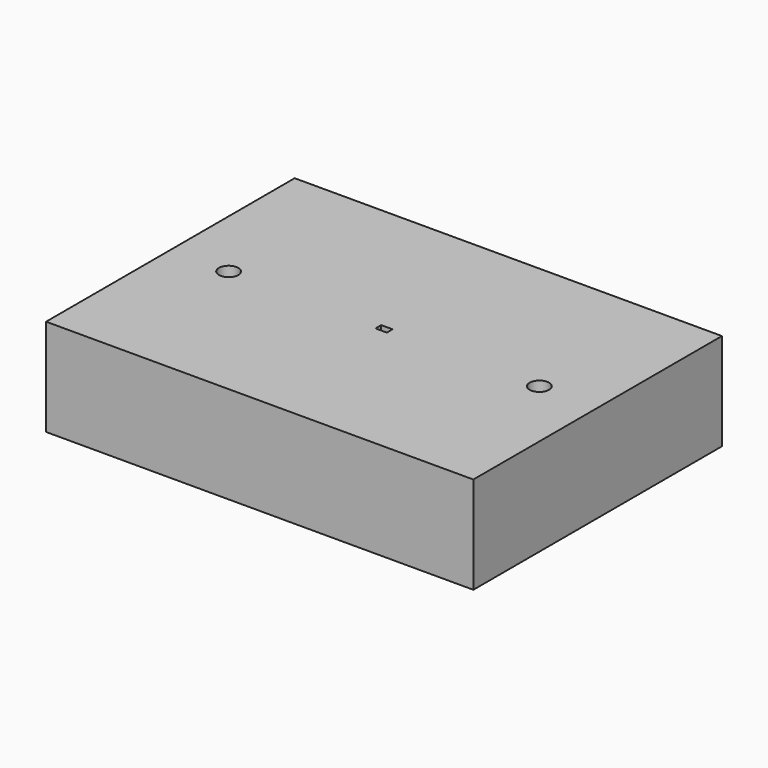
from build123d import *

# Parameters (mm, degrees)
F0_W     = 2794
F0_H     = 2032
F0_R     = 63.5
F0_W_2   = 74.060746
F0_H_2   = 47.080732
F1_DEPTH = 635


with BuildPart() as f1:
    # F0 (on Top) → F1 (new body)
    with BuildSketch(Plane.XY):
        Rectangle(F0_W, F0_H)
        with Locations((-1016, 0)):
            Circle(F0_R, mode=Mode.SUBTRACT)
        Rectangle(F0_W_2, F0_H_2, mode=Mode.SUBTRACT)
        with Locations((1016, 0)):
            Circle(F0_R, mode=Mode.SUBTRACT)
    extrude(amount=F1_DEPTH)


solid = f1.part
